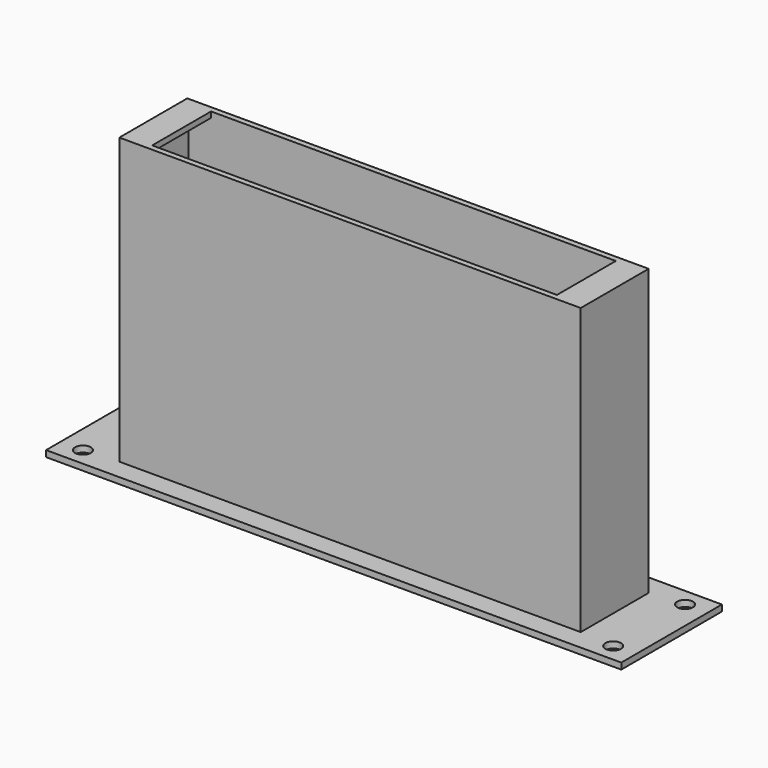
from build123d import *

# Parameters (mm, degrees)
SKETCH_W      = 203.2
SKETCH_H      = 44.45
SKETCH_R      = 2.775
SKETCH_W_2    = 159
SKETCH_H_2    = 26
PAD_DEPTH     = 2.2
SKETCH001_W   = 163
SKETCH001_H   = 30
SKETCH001_W_2 = 159
SKETCH001_H_2 = 26
PAD001_DEPTH  = 98.8
SKETCH002_W   = 163
SKETCH002_H   = 30
SKETCH002_W_2 = 143
SKETCH002_H_2 = 26
PAD002_DEPTH  = 2


with BuildPart() as part:
    # Sketch → Pad (new body)
    with BuildSketch(Plane.XY):
        Rectangle(SKETCH_W, SKETCH_H)
        with Locations((-93.6625, 15.875)):
            Circle(SKETCH_R, mode=Mode.SUBTRACT)
        with Locations((-93.6625, -15.875)):
            Circle(SKETCH_R, mode=Mode.SUBTRACT)
        with Locations((93.6625, 15.875)):
            Circle(SKETCH_R, mode=Mode.SUBTRACT)
        with Locations((93.6625, -15.875)):
            Circle(SKETCH_R, mode=Mode.SUBTRACT)
        Rectangle(SKETCH_W_2, SKETCH_H_2, mode=Mode.SUBTRACT)
    extrude(amount=PAD_DEPTH)

    # Sketch001 (on Face14 of Pad) → Pad001 (join)
    with BuildSketch(Plane.XY.offset(2.2)):
        Rectangle(SKETCH001_W, SKETCH001_H)
        Rectangle(SKETCH001_W_2, SKETCH001_H_2, mode=Mode.SUBTRACT)
    extrude(amount=PAD001_DEPTH)

    # Sketch002 (on Face15 of Pad001) → Pad002 (join)
    with BuildSketch(Plane.XY.offset(101)):
        Rectangle(SKETCH002_W, SKETCH002_H)
        Rectangle(SKETCH002_W_2, SKETCH002_H_2, mode=Mode.SUBTRACT)
    extrude(amount=PAD002_DEPTH)


solid = part.part
